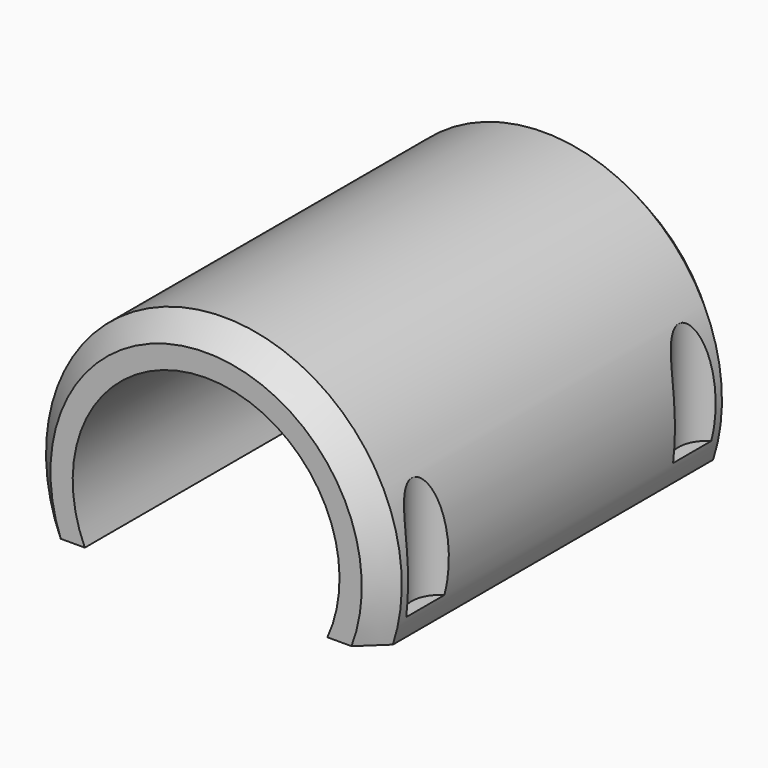
from build123d import *

# Parameters (mm, degrees)
CYLINDER1829_R     = 2.5
CYLINDER1829_DEPTH = 30
CYLINDER1828_R     = 2.5
CYLINDER1828_DEPTH = 30
CYLINDER1830_R     = 2.5
CYLINDER1830_DEPTH = 30
CYLINDER1831_R     = 2.5
CYLINDER1831_DEPTH = 30
BOX718_W           = 100
BOX718_H           = 100
BOX718_DEPTH       = 100
TUBE091_R          = 16
TUBE091_R_2        = 12
TUBE091_DEPTH      = 40
CHAMFER062_SIZE    = 2


with BuildPart() as obj1:
    # Cylinder1829 → Cylinder1829 (new body)
    with BuildSketch(Plane(origin=(58, -19, 26), x_dir=(1, 0, 0), z_dir=(0, 0, 1))):
        Circle(CYLINDER1829_R)
    extrude(amount=CYLINDER1829_DEPTH)


with BuildPart() as compound924:
    # Cylinder1828 → Cylinder1828 (new body)
    with BuildSketch(Plane(origin=(58, 11, 26), x_dir=(1, 0, 0), z_dir=(0, 0, 1))):
        Circle(CYLINDER1828_R)
    extrude(amount=CYLINDER1828_DEPTH)

    # Compound924: union obj1
    add(obj1.part)


with BuildPart() as compound924_1:
    # Compound924 placement: moved
    add(compound924.part.moved(Location((34, 0, 13))))


with BuildPart() as obj2:
    # Cylinder1830 → Cylinder1830 (new body)
    with BuildSketch(Plane(origin=(58, -19, 26), x_dir=(1, 0, 0), z_dir=(0, 0, 1))):
        Circle(CYLINDER1830_R)
    extrude(amount=CYLINDER1830_DEPTH)


with BuildPart() as compound925:
    # Cylinder1831 → Cylinder1831 (new body)
    with BuildSketch(Plane(origin=(58, 11, 26), x_dir=(1, 0, 0), z_dir=(0, 0, 1))):
        Circle(CYLINDER1831_R)
    extrude(amount=CYLINDER1831_DEPTH)

    # Compound926: union obj2
    add(obj2.part)


with BuildPart() as compound925_1:
    # Compound926 placement: moved
    add(compound925.part.moved(Location((0, 0, 13))))

    # Compound925: union Compound924
    add(compound924_1.part)


with BuildPart() as krychle718:
    # Box718 → Box718 (new body)
    with BuildSketch(Plane(origin=(32, -54, -63), x_dir=(1, 0, 0), z_dir=(0, 0, 1))):
        with Locations((50, 50)):
            Rectangle(BOX718_W, BOX718_H)
    extrude(amount=BOX718_DEPTH)


with BuildPart() as cut546:
    # Tube091 → Tube091 (new body)
    with BuildSketch(Plane(origin=(75, 16, 42), x_dir=(1, 0, 0), z_dir=(0, -1, 0))):
        Circle(TUBE091_R)
        Circle(TUBE091_R_2, mode=Mode.SUBTRACT)
    extrude(amount=TUBE091_DEPTH)

    # Chamfer062
    chamfer062_edges = [cut546.edges().sort_by_distance(p)[0] for p in [
        (59, -24, 42),
        (59, 16, 42),
    ]]
    chamfer(chamfer062_edges, length=CHAMFER062_SIZE)

    # Cut542: cut Krychle718
    add(krychle718.part, mode=Mode.SUBTRACT)

    # Cut546: cut Compound925
    add(compound925_1.part, mode=Mode.SUBTRACT)


solid = cut546.part
